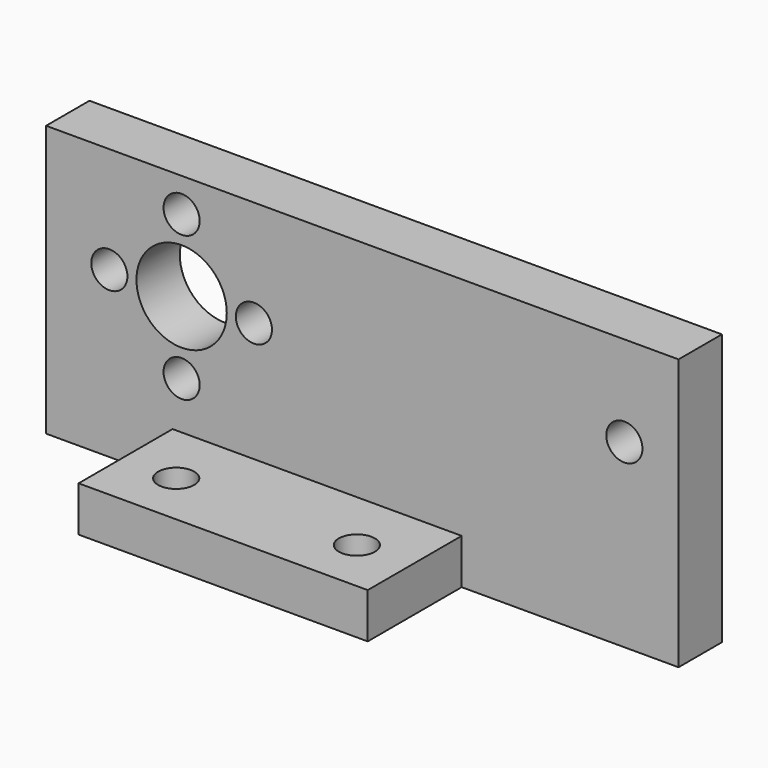
from build123d import *

# Parameters (mm, degrees)
F0_W     = 32
F0_H     = 32
F0_R     = 2
F1_DEPTH = 5
F2_W     = 70
F2_H     = 30
F2_R     = 2
F2_R_2   = 5
F3_DEPTH = 3


with BuildPart() as f1:
    # F0 (on Top) → F1 (new body)
    with BuildSketch(Plane.XY):
        Rectangle(F0_W, F0_H)
        with Locations((-10, -10)):
            Circle(F0_R, mode=Mode.SUBTRACT)
        with Locations((10, -10)):
            Circle(F0_R, mode=Mode.SUBTRACT)
        with Locations((-10, 10)):
            Circle(F0_R, mode=Mode.SUBTRACT)
        with Locations((10, 10)):
            Circle(F0_R, mode=Mode.SUBTRACT)
    extrude(amount=F1_DEPTH)

    # F2 (on Front) → F3 (join, symmetric)
    with BuildSketch(Plane.XZ):
        with Locations((5, 15)):
            Rectangle(F2_W, F2_H)
        with Locations((-15, 10.25)):
            Circle(F2_R, mode=Mode.SUBTRACT)
        with Locations((-23, 18.25)):
            Circle(F2_R, mode=Mode.SUBTRACT)
        with Locations((-15, 18.25)):
            Circle(F2_R_2, mode=Mode.SUBTRACT)
        with Locations((-7, 18.25)):
            Circle(F2_R, mode=Mode.SUBTRACT)
        with Locations((-15, 26.25)):
            Circle(F2_R, mode=Mode.SUBTRACT)
        with Locations((34, 20)):
            Circle(F2_R, mode=Mode.SUBTRACT)
    extrude(amount=F3_DEPTH, both=True)


solid = f1.part
